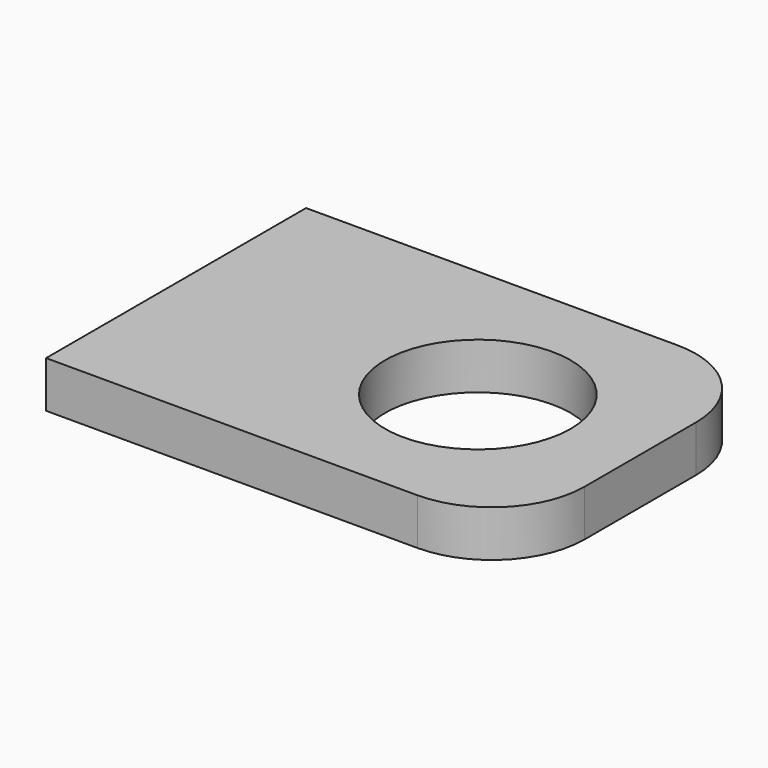
from build123d import *

# Parameters (mm, degrees)
F0_R     = 20
F1_DEPTH = 10


with BuildPart() as f1:
    # F0 (on Top) → F1 (new body)
    with BuildSketch(Plane.XY):
        with BuildLine():
            Line((-120.688487, 61.177432), (-200.688487, 61.177432))
            Line((-200.688487, 61.177432), (-200.688487, -8.822568))
            Line((-200.688487, -8.822568), (-120.688487, -8.822568))
            ThreePointArc((-120.688487, -8.822568), (-106.546351, -2.964704), (-100.688487, 11.177432))
            Line((-100.688487, 11.177432), (-100.688487, 41.177432))
            ThreePointArc((-100.688487, 41.177432), (-106.546351, 55.319567), (-120.688487, 61.177432))
        make_face()
        with Locations((-135.688487, 26.177432)):
            Circle(F0_R, mode=Mode.SUBTRACT)
    extrude(amount=F1_DEPTH)


solid = f1.part
